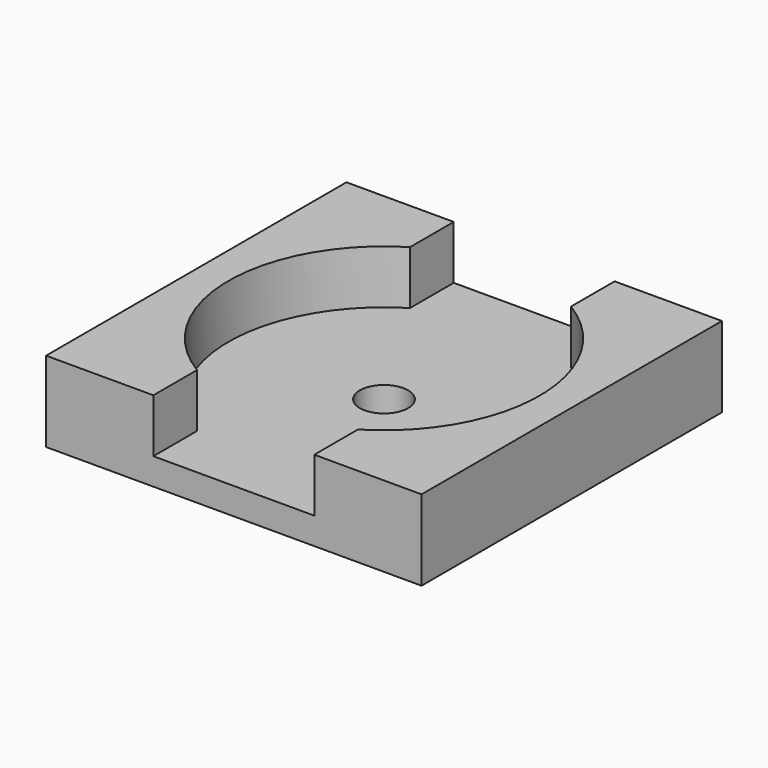
from build123d import *

# Parameters (mm, degrees)
SKETCH006_W     = 14
SKETCH006_H     = 14
PAD002_DEPTH    = 3
POCKET004_DEPTH = 2
SKETCH008_R     = 0.9
POCKET005_DEPTH = 1.001


with BuildPart() as part:
    # Sketch006 → Pad002 (new body)
    with BuildSketch(Plane.XY):
        Rectangle(SKETCH006_W, SKETCH006_H)
    extrude(amount=PAD002_DEPTH)

    # Sketch007 (on Face6 of Pad002) → Pocket004 (cut)
    with BuildSketch(Plane.XY.offset(3)):
        with BuildLine():
            Line((-3, 7), (-3, 4.963869))
            ThreePointArc((-3, 4.963869), (-5.8, 0), (-3, -4.963869))
            Line((-3, -7), (-3, -4.963869))
            Line((3, -7), (-3, -7))
            Line((3, -4.963869), (3, -7))
            ThreePointArc((3, -4.963869), (5.8, 0), (3, 4.963869))
            Line((3, 7), (3, 4.963869))
            Line((-3, 7), (3, 7))
        make_face()
    extrude(amount=-POCKET004_DEPTH, mode=Mode.SUBTRACT)

    # Sketch008 (on Face6 of Pocket004) → Pocket005 (cut, through all)
    with BuildSketch(Plane.XY.offset(1)):
        Circle(SKETCH008_R)
    extrude(amount=-POCKET005_DEPTH, mode=Mode.SUBTRACT)


solid = part.part
